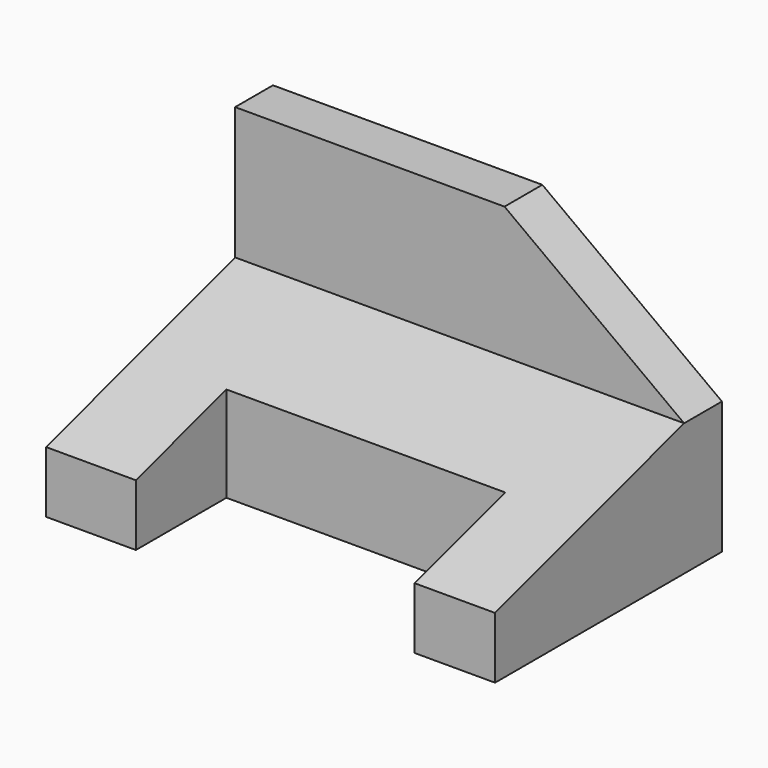
from build123d import *

# Parameters (mm, degrees)
F0_W     = 10
F0_H     = 28
F1_DEPTH = 95
F3_DEPTH = 39.5
F4_W     = 59
F4_H     = 24
F5_DEPTH = 192


with BuildPart() as f1:
    # F0 (on Right) → F1 (new body)
    with BuildSketch(Plane.YZ):
        with Locations((25.561791, -0.421245)):
            Rectangle(F0_W, F0_H)
        Polygon((-29.438209, -29.421245), (-29.438209, -42.421245), (30.561791, -42.421245), (30.561791, -14.421245), (20.561791, -14.421245), align=None)
    extrude(amount=F1_DEPTH)

    # F2 (on face) → F3 (cut)
    with BuildSketch(Plane.XZ.offset(-20.561791)):
        Polygon((95, 13.578755), (57, 13.578755), (95, -14.421245), align=None)
    extrude(amount=-F3_DEPTH, mode=Mode.SUBTRACT)

    # F4 (on Top) → F5 (cut)
    with BuildSketch(Plane.XY):
        with Locations((48.5, -17.497424)):
            Rectangle(F4_W, F4_H)
    extrude(amount=-F5_DEPTH, mode=Mode.SUBTRACT)


solid = f1.part
